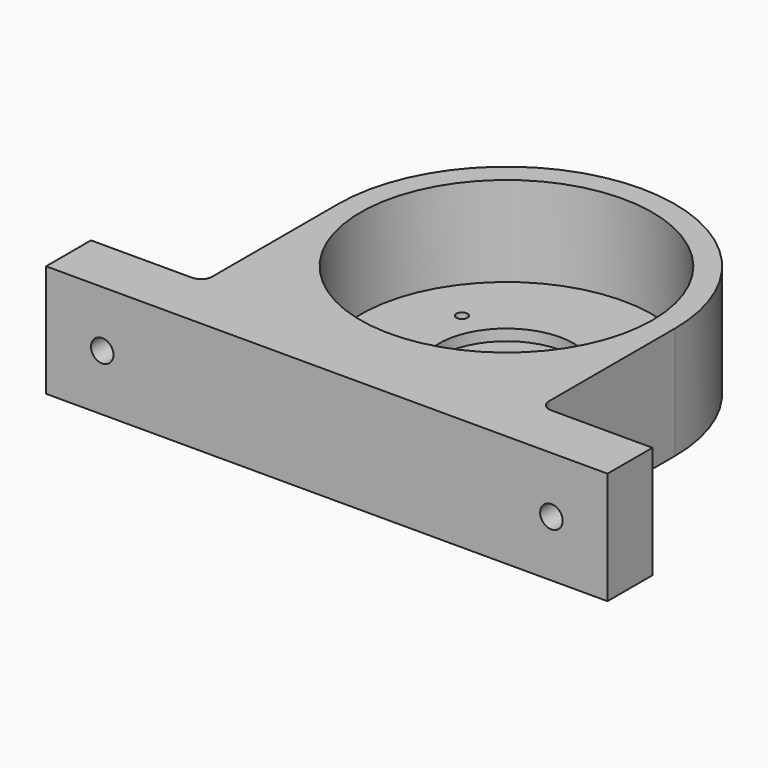
from build123d import *

# Parameters (mm, degrees)
PAD_DEPTH       = 10
SKETCH001_R     = 13
POCKET_DEPTH    = 8
SKETCH002_R     = 6
POCKET001_DEPTH = 1
SKETCH003_R     = 1.5
POCKET002_DEPTH = 1
SKETCH004_R     = 0.5
POCKET003_DEPTH = 2
SKETCH005_R     = 1
POCKET004_DEPTH = 5
FILLET_R        = 1
FILLET001_R     = 1


with BuildPart() as part:
    # Sketch → Pad (new body)
    with BuildSketch(Plane.XY):
        with BuildLine():
            ThreePointArc((15, 0), (0, 15), (-15, 0))
            Line((-15, 0), (-15, -15))
            Line((-15, -15), (-25, -15))
            Line((-25, -15), (-25, -20))
            Line((-25, -20), (25, -20))
            Line((25, -15), (25, -20))
            Line((15, -15), (25, -15))
            Line((15, 0), (15, -15))
        make_face()
    extrude(amount=PAD_DEPTH)

    # Sketch001 (on Face10 of Pad) → Pocket (cut)
    with BuildSketch(Plane.XY.offset(10)):
        Circle(SKETCH001_R)
    extrude(amount=-POCKET_DEPTH, mode=Mode.SUBTRACT)

    # Sketch002 (on Face12 of Pocket) → Pocket001 (cut)
    with BuildSketch(Plane.XY.offset(2)):
        Circle(SKETCH002_R)
    extrude(amount=-POCKET001_DEPTH, mode=Mode.SUBTRACT)

    # Sketch003 (on Face14 of Pocket001) → Pocket002 (cut)
    with BuildSketch(Plane.XY.offset(1)):
        Circle(SKETCH003_R)
    extrude(amount=-POCKET002_DEPTH, mode=Mode.SUBTRACT)

    # Sketch004 (on Face14 of Pocket002) → Pocket003 (cut)
    with BuildSketch(Plane.XY.offset(2)):
        with Locations((0, -8.5)):
            Circle(SKETCH004_R)
        with Locations((7.361216, 4.25)):
            Circle(SKETCH004_R)
        with Locations((-7.361216, 4.25)):
            Circle(SKETCH004_R)
    extrude(amount=-POCKET003_DEPTH, mode=Mode.SUBTRACT)

    # Sketch005 (on Face6 of Pocket003) → Pocket004 (cut)
    with BuildSketch(Plane(origin=(0, -15, 0), x_dir=(-1, 0, 0), z_dir=(0, 1, 0))):
        with Locations((-20, 5)):
            Circle(SKETCH005_R)
        with Locations((20, 5)):
            Circle(SKETCH005_R)
    extrude(amount=-POCKET004_DEPTH, mode=Mode.SUBTRACT)

    # Fillet
    fillet_edges = [part.edges().sort_by_distance(p)[0] for p in [
        (-15, -15, 5),
    ]]
    fillet(fillet_edges, radius=FILLET_R)

    # Fillet001
    fillet001_edges = [part.edges().sort_by_distance(p)[0] for p in [
        (15, -15, 5),
    ]]
    fillet(fillet001_edges, radius=FILLET001_R)


solid = part.part
